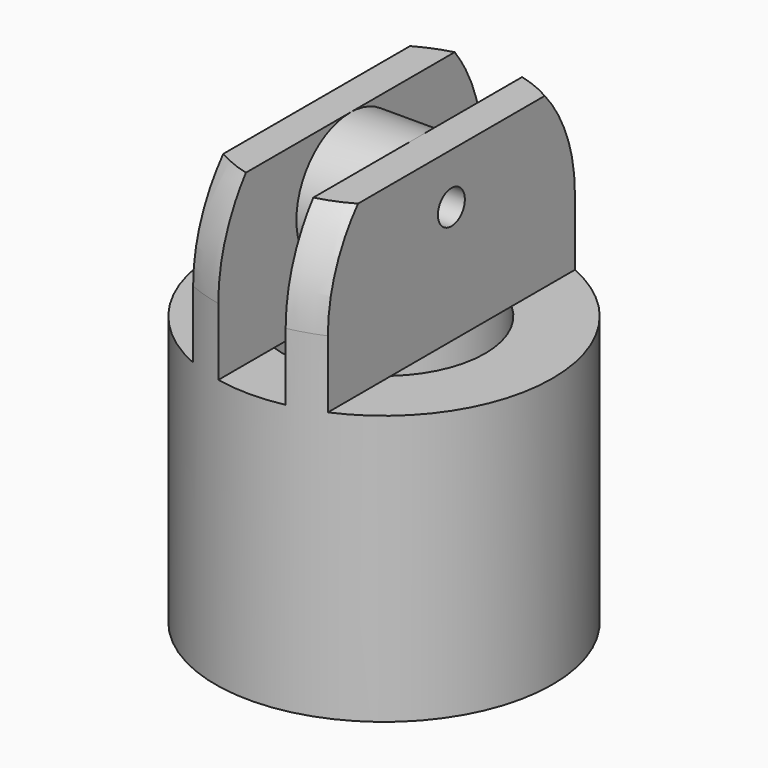
from build123d import *

# Parameters (mm, degrees)
CYLINDER021_R     = 0.5
CYLINDER021_DEPTH = 10
CYLINDER018_R     = 2
CYLINDER018_DEPTH = 4
CYLINDER022_R     = 3
CYLINDER022_DEPTH = 10
BOX007_W          = 10
BOX007_H          = 10
BOX007_DEPTH      = 10
BOX005_W          = 2
BOX005_H          = 10
BOX005_DEPTH      = 10
BOX006_W          = 10
BOX006_H          = 10
BOX006_DEPTH      = 10
CYLINDER020_R     = 5
CYLINDER020_DEPTH = 10
CYLINDER019_R     = 5
CYLINDER019_DEPTH = 10


with BuildPart() as cylinder021:
    # Cylinder021 → Cylinder021 (new body)
    with BuildSketch(Plane(origin=(-5, 0, -7), x_dir=(0, 0, -1), z_dir=(1, 0, 0))):
        Circle(CYLINDER021_R)
    extrude(amount=CYLINDER021_DEPTH)


with BuildPart() as cylinder018:
    # Cylinder018 → Cylinder018 (new body)
    with BuildSketch(Plane(origin=(-2, -50, 1), x_dir=(0, 0, -1), z_dir=(1, 0, 0))):
        Circle(CYLINDER018_R)
    extrude(amount=CYLINDER018_DEPTH)


with BuildPart() as cylinder022:
    # Cylinder022 → Cylinder022 (new body)
    with BuildSketch(Plane(origin=(0, -50, -12), x_dir=(1, 0, 0), z_dir=(0, 0, 1))):
        Circle(CYLINDER022_R)
    extrude(amount=CYLINDER022_DEPTH)


with BuildPart() as cube007:
    # Box007 → Box007 (new body)
    with BuildSketch(Plane(origin=(-12, -55, -2), x_dir=(1, 0, 0), z_dir=(0, 0, 1))):
        with Locations((5, 5)):
            Rectangle(BOX007_W, BOX007_H)
    extrude(amount=BOX007_DEPTH)


with BuildPart() as cube005:
    # Box005 → Box005 (new body)
    with BuildSketch(Plane(origin=(-1, -55, -2), x_dir=(1, 0, 0), z_dir=(0, 0, 1))):
        with Locations((1, 5)):
            Rectangle(BOX005_W, BOX005_H)
    extrude(amount=BOX005_DEPTH)


with BuildPart() as cube006:
    # Box006 → Box006 (new body)
    with BuildSketch(Plane(origin=(2, -55, -2), x_dir=(1, 0, 0), z_dir=(0, 0, 1))):
        with Locations((5, 5)):
            Rectangle(BOX006_W, BOX006_H)
    extrude(amount=BOX006_DEPTH)


with BuildPart() as cylinder020:
    # Cylinder020 → Cylinder020 (new body)
    with BuildSketch(Plane(origin=(0, -50, -10), x_dir=(1, 0, 0), z_dir=(0, 0, 1))):
        Circle(CYLINDER020_R)
    extrude(amount=CYLINDER020_DEPTH)


with BuildPart() as sphere005:
    # Sphere005 → Sphere005 (revolve)
    with BuildSketch(Plane.XZ.offset(50)):
        with BuildLine():
            ThreePointArc((5, 0), (3.535534, 3.535534), (0, 5))
            Line((0, 5), (0, 0))
            Line((0, 0), (5, 0))
        make_face()
    revolve(axis=Axis((0, -50, 0), (0, 0, 1)))


with BuildPart() as cut016:
    # Cylinder019 → Cylinder019 (new body)
    with BuildSketch(Plane(origin=(0, -50, -7), x_dir=(1, 0, 0), z_dir=(0, 0, 1))):
        Circle(CYLINDER019_R)
    extrude(amount=CYLINDER019_DEPTH)

    # Common003: intersect Sphere005
    add(sphere005.part, mode=Mode.INTERSECT)

    # Fusion005003: union Cylinder020
    add(cylinder020.part)

    # Cut015: cut Cube006
    add(cube006.part, mode=Mode.SUBTRACT)

    # Cut017: cut Cube005
    add(cube005.part, mode=Mode.SUBTRACT)

    # Cut018: cut Cube007
    add(cube007.part, mode=Mode.SUBTRACT)

    # Cut014: cut Cylinder022
    add(cylinder022.part, mode=Mode.SUBTRACT)

    # Fusion005002: union Cylinder018
    add(cylinder018.part)


with BuildPart() as cut016_1:
    # Fusion005004 placement: moved
    add(cut016.part.moved(Location((0, 50, -8.5))))

    # Cut016: cut Cylinder021
    add(cylinder021.part, mode=Mode.SUBTRACT)


with BuildPart() as cut016_2:
    # Cut016 placement: moved
    add(cut016_1.part.moved(Location((24.5, 0, 0))))


solid = cut016_2.part
